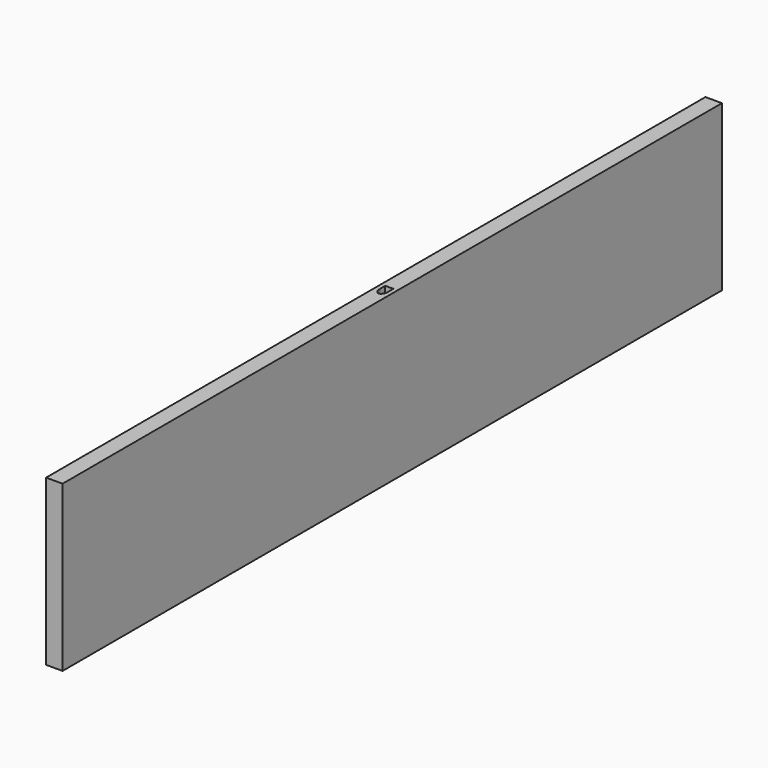
from build123d import *

# Parameters (mm, degrees)
F2_DEPTH = 100
F6_ANGLE = 180


with BuildPart() as f2:
    # F1 (on Top) → F2 (new body)
    with BuildSketch(Plane.XY):
        with BuildLine():
            Line((5, 4.045), (5, 250))
            Line((5, 250), (0, 250))
            Line((0, 250), (0, -250))
            Line((0, -250), (5, -250))
            Line((5, -250), (5, -4.045))
            Line((5, -4.045), (2.5, -4.045))
            Line((2.5, -4.045), (2.5, 0))
            add(Edge.make_bspline(
                [(5, 4.045), (2.5, 4.045), (2.5, 0)],
                knots=[0, 0, 0, 1.5707963268, 1.5707963268, 1.5707963268], degree=2, weights=[1, 0.7071067812, 1]))
        make_face()
    extrude(amount=F2_DEPTH)


with BuildPart() as f2_1:
    # F4: moved
    add(f2.part.moved(Location((-5, 0, 0))))

    # F5: F2 across plane


with BuildPart() as f2_2:
    add(f2_1.part)
    add(f2_1.part.mirror(Plane.YZ))


with BuildPart() as f2_3:
    # F6: moved
    add(f2_2.part.rotate(Axis((5, -250, 50), (0, 0, -1)), F6_ANGLE))


with BuildPart() as f2_4:
    # F9: moved
    add(f2_3.part.moved(Location((-10, 500, 0))))


solid = f2_4.part
